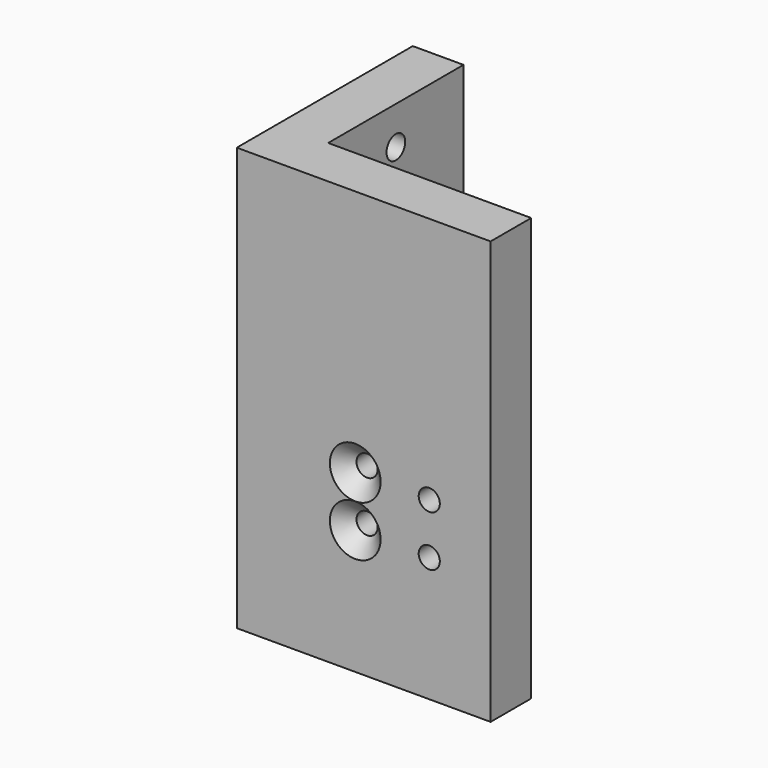
from build123d import *

# Parameters (mm, degrees)
F0_W            = 60
F0_H            = 100
F1_DEPTH        = 10
F2_W            = 12
F2_H            = 100
F3_DEPTH        = 40
F5_W            = 60
F5_H            = 100
F6_DEPTH        = 12
F7_W            = 12
F7_H            = 100
F8_DEPTH        = 40
F10_D           = 5
F10_CSINK_D     = 12
F10_CSINK_ANGLE = 90
F12_D           = 5
F13_R           = 8
F14_DEPTH       = 3
F16_D           = 6.5
F18_D           = 6.5
F20_D           = 5.5
F22_D           = 15.5


with BuildPart() as f1:
    # F0 (on Front) → F1 (new body)
    with BuildSketch(Plane.XZ):
        Rectangle(F0_W, F0_H)
    extrude(amount=F1_DEPTH)

    # F2 (on face) → F3 (join)
    with BuildSketch(Plane.XZ.offset(10)):
        with Locations((-24, 0)):
            Rectangle(F2_W, F2_H)
    extrude(amount=F3_DEPTH)


with BuildPart() as f6:
    # F5 (on Front) → F6 (new body)
    with BuildSketch(Plane.XZ):
        Rectangle(F5_W, F5_H)
    extrude(amount=F6_DEPTH)

    # F7 (on face) → F8 (join)
    with BuildSketch(Plane(origin=(0, 0, 0), x_dir=(-1, 0, 0), z_dir=(0, 1, 0))):
        with Locations((24, 0)):
            Rectangle(F7_W, F7_H)
    extrude(amount=F8_DEPTH)

    # F10 (through all)
    with Locations(Plane.XZ.offset(12)):
        with Locations((-2, -8.5), (-2, -20.5)):
            CounterSinkHole(F10_D / 2, F10_CSINK_D / 2, counter_sink_angle=F10_CSINK_ANGLE)

    # F12 (through all)
    with Locations(Plane.XZ.offset(12)):
        with Locations((15.5, -8.5), (15.5, -20.5)):
            Hole(F12_D / 2)

    # F13 (on face) → F14 (cut)
    with BuildSketch(Plane.YZ.offset(-18)):
        with Locations((20, 6)):
            Circle(F13_R)
        with Locations((20, -34)):
            Circle(F13_R)
    extrude(amount=-F14_DEPTH, mode=Mode.SUBTRACT)

    # F16 (through all)
    with Locations(Plane.YZ.offset(-21)):
        with Locations((20, 6)):
            Hole(F16_D / 2)

    # F18 (through all)
    with Locations(Plane.YZ.offset(-21)):
        with Locations((20, -34)):
            Hole(F18_D / 2)

    # F20 (through all)
    with Locations(Plane.YZ.offset(-18)):
        with Locations((20, 41)):
            Hole(F20_D / 2)

    # F22 (through all)
    with Locations(Plane.YZ.offset(-18)):
        with Locations((20, -14)):
            Hole(F22_D / 2)


solid = f6.part
